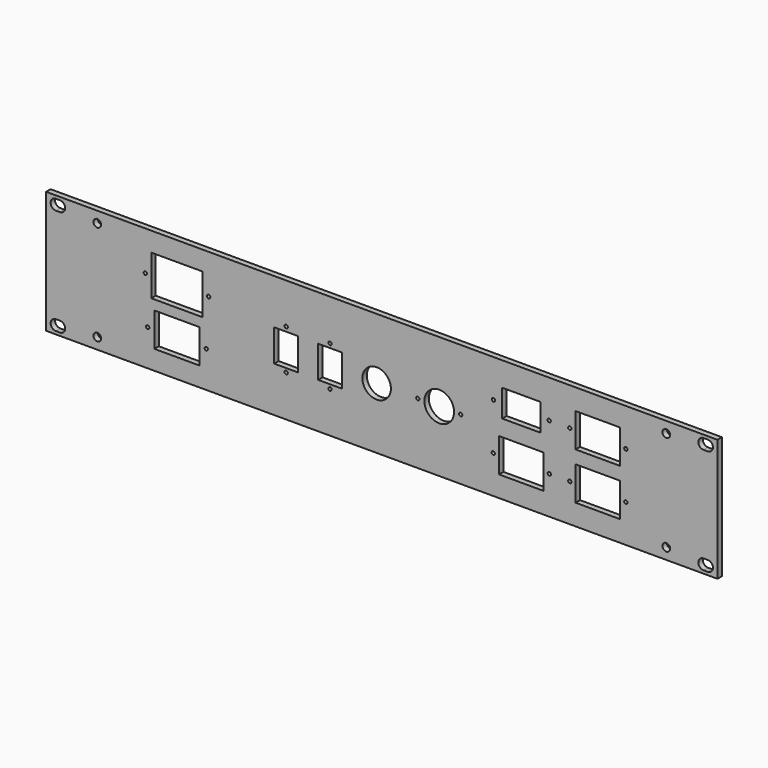
from build123d import *

# Parameters (mm, degrees)
F0_W     = 482.6
F0_H     = 88
F0_W_2   = 32.6
F0_H_2   = 24.3
F0_W_3   = 32
F0_W_4   = 37
F0_H_3   = 28.9
F0_W_5   = 17.2
F0_H_4   = 23
F0_W_6   = 17
F0_H_5   = 22.9
F0_R     = 10.25
F0_R_2   = 10.65
F0_W_7   = 27.5
F0_H_6   = 19.5
F1_DEPTH = 4
F2_D     = 5.5
F3_D     = 2.4


with BuildPart() as f1:
    # F0 (on Front) → F1 (new body)
    with BuildSketch(Plane.XZ):
        with Locations((-241.3, 44)):
            Rectangle(F0_W, F0_H)
        with BuildLine():
            ThreePointArc((-475.6, 2.15), (-479.35, 5.9), (-475.6, 9.65))
            Line((-475.6, 9.65), (-472.6, 9.65))
            ThreePointArc((-472.6, 9.65), (-468.85, 5.9), (-472.6, 2.15))
            Line((-472.6, 2.15), (-475.6, 2.15))
        make_face(mode=Mode.SUBTRACT)
        with Locations((-388.5, 26.05)):
            Rectangle(F0_W_2, F0_H_2, mode=Mode.SUBTRACT)
        with BuildLine():
            ThreePointArc((-10, 2.15), (-13.75, 5.9), (-10, 9.65))
            Line((-10, 9.65), (-7, 9.65))
            ThreePointArc((-7, 9.65), (-3.25, 5.9), (-7, 2.15))
            Line((-7, 2.15), (-10, 2.15))
        make_face(mode=Mode.SUBTRACT)
        with Locations((-141, 27.15)):
            Rectangle(F0_W_3, F0_H_2, mode=Mode.SUBTRACT)
        with Locations((-86, 27.15)):
            Rectangle(F0_W_3, F0_H_2, mode=Mode.SUBTRACT)
        with Locations((-388.5, 59.65)):
            Rectangle(F0_W_4, F0_H_3, mode=Mode.SUBTRACT)
        with Locations((-310, 44.05)):
            Rectangle(F0_W_5, F0_H_4, mode=Mode.SUBTRACT)
        with Locations((-278.5, 44)):
            Rectangle(F0_W_6, F0_H_5, mode=Mode.SUBTRACT)
        with Locations((-245, 44)):
            Circle(F0_R, mode=Mode.SUBTRACT)
        with BuildLine():
            ThreePointArc((-475.6, 78.35), (-479.35, 82.1), (-475.6, 85.85))
            Line((-475.6, 85.85), (-472.6, 85.85))
            ThreePointArc((-472.6, 85.85), (-468.85, 82.1), (-472.6, 78.35))
            Line((-472.6, 78.35), (-475.6, 78.35))
        make_face(mode=Mode.SUBTRACT)
        with Locations((-200, 44)):
            Circle(F0_R_2, mode=Mode.SUBTRACT)
        with Locations((-141, 60.85)):
            Rectangle(F0_W_7, F0_H_6, mode=Mode.SUBTRACT)
        with Locations((-86, 60.85)):
            Rectangle(F0_W_3, F0_H_2, mode=Mode.SUBTRACT)
        with BuildLine():
            ThreePointArc((-10, 78.35), (-13.75, 82.1), (-10, 85.85))
            Line((-10, 85.85), (-7, 85.85))
            ThreePointArc((-7, 85.85), (-3.25, 82.1), (-7, 78.35))
            Line((-7, 78.35), (-10, 78.35))
        make_face(mode=Mode.SUBTRACT)
    extrude(amount=F1_DEPTH)

    # F2 (through all)
    with Locations(Plane(origin=(0, 0, 0), x_dir=(1, 0, 0), z_dir=(0, 1, 0))):
        with Locations((-445.8, -80), (-445.8, -8), (-36.8, -80), (-36.8, -8)):
            Hole(F2_D / 2)

    # F3 (through all)
    with Locations(Plane(origin=(0, 0, 0), x_dir=(1, 0, 0), z_dir=(0, 1, 0))):
        with Locations((-121, -60.85), (-184.6, -44), (-215.4, -44), (-161, -60.85), (-278.5, -58.45), (-278.5, -29.55), (-365.75, -59.65), (-411.25, -59.65), (-409.55, -26.05), (-367.45, -26.05), (-106.15, -60.85), (-65.85, -60.85), (-65.85, -27.15), (-106.15, -27.15), (-310, -58.8), (-310, -29.8), (-161.15, -27.15), (-120.85, -27.15)):
            Hole(F3_D / 2)


solid = f1.part
